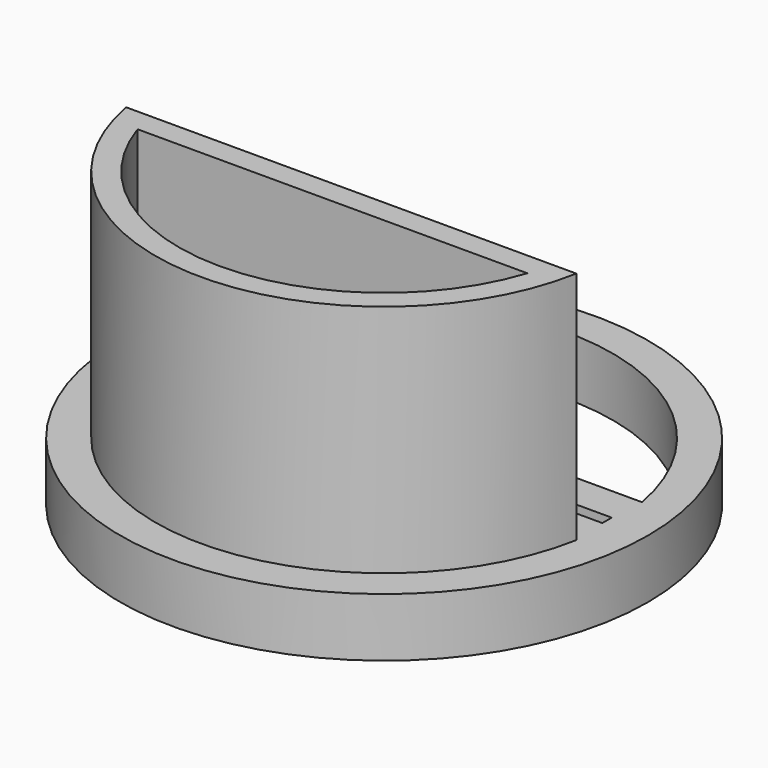
from build123d import *

# Parameters (mm, degrees)
F0_R     = 22.5
F0_W     = 38
F0_H     = 1
F1_DEPTH = 5
F2_DEPTH = 25


with BuildPart() as f1:
    # F0 (on Top) → F1 (new body)
    with BuildSketch(Plane.XY):
        Circle(F0_R)
        with BuildLine():
            ThreePointArc((19.183326, -3.5), (0, -19.5), (-19.183326, -3.5))
            Line((-19.183326, -3.5), (19.183326, -3.5))
        make_face(mode=Mode.SUBTRACT)
        Rectangle(F0_W, F0_H, mode=Mode.SUBTRACT)
        with BuildLine():
            Line((19.183326, 3.5), (-19.183326, 3.5))
            ThreePointArc((-19.183326, 3.5), (0, 19.5), (19.183326, 3.5))
        make_face(mode=Mode.SUBTRACT)
    extrude(amount=F1_DEPTH)

    # F0 (on Top) → F2 (join)
    with BuildSketch(Plane.XY):
        with BuildLine():
            Line((19.183326, -3.5), (-19.183326, -3.5))
            ThreePointArc((-19.183326, -3.5), (0, -19.5), (19.183326, -3.5))
        make_face()
        with BuildLine():
            ThreePointArc((16.613248, -5.5), (0, -17.5), (-16.613248, -5.5))
            Line((-16.613248, -5.5), (16.613248, -5.5))
        make_face(mode=Mode.SUBTRACT)
    extrude(amount=F2_DEPTH)


solid = f1.part
